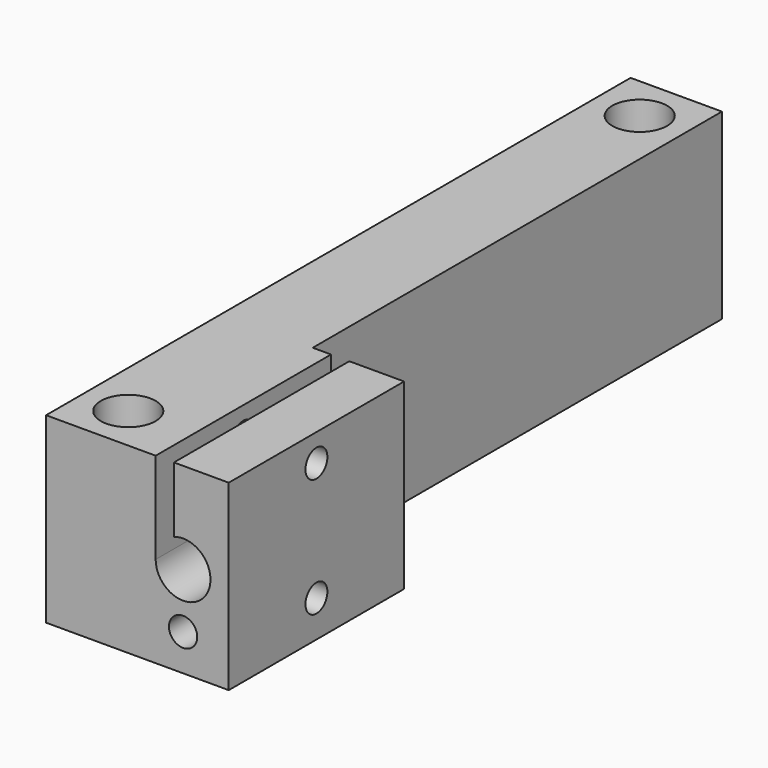
from build123d import *

# Parameters (mm, degrees)
SKETCH_W        = 20
SKETCH_H        = 20
PAD_DEPTH       = 80
SKETCH001_R     = 3
POCKET_DEPTH    = 20.001
SKETCH002_W     = 10
SKETCH002_H     = 56
POCKET001_DEPTH = 20.001
SKETCH003_R     = 3
SKETCH003_R_2   = 1.55
POCKET002_DEPTH = 80.001
SKETCH004_W     = 2
SKETCH004_H     = 24
POCKET003_DEPTH = 10
SKETCH005_R     = 1.5
POCKET004_DEPTH = 5
SKETCH006_R     = 1.5
POCKET005_DEPTH = 20.001


with BuildPart() as part:
    # Sketch → Pad (new body)
    with BuildSketch(Plane.XZ):
        with Locations((10, 10)):
            Rectangle(SKETCH_W, SKETCH_H)
    extrude(amount=PAD_DEPTH)

    # Sketch001 (on Face3 of Pad) → Pocket (cut, through all)
    with BuildSketch(Plane(origin=(0, 0, 20), x_dir=(-1, 0, 0), z_dir=(0, 0, 1))):
        with Locations((-5, 5)):
            Circle(SKETCH001_R)
        with Locations((-5, 75)):
            Circle(SKETCH001_R)
    extrude(amount=-POCKET_DEPTH, mode=Mode.SUBTRACT)

    # Sketch002 (on Face8 of Pocket) → Pocket001 (cut, through all)
    with BuildSketch(Plane(origin=(0, 0, 20), x_dir=(-1, 0, 0), z_dir=(0, 0, 1))):
        with Locations((-15, 28)):
            Rectangle(SKETCH002_W, SKETCH002_H)
    extrude(amount=-POCKET001_DEPTH, mode=Mode.SUBTRACT)

    # Sketch003 (on Face6 of Pocket001) → Pocket002 (cut, through all)
    with BuildSketch(Plane.XZ.offset(80)):
        with Locations((15, 10)):
            Circle(SKETCH003_R)
        with Locations((15, 4)):
            Circle(SKETCH003_R_2)
    extrude(amount=-POCKET002_DEPTH, mode=Mode.SUBTRACT)

    # Sketch004 (on Face10 of Pocket002) → Pocket003 (cut)
    with BuildSketch(Plane(origin=(0, 0, 20), x_dir=(-1, 0, 0), z_dir=(0, 0, 1))):
        with Locations((-13, 68)):
            Rectangle(SKETCH004_W, SKETCH004_H)
    extrude(amount=-POCKET003_DEPTH, mode=Mode.SUBTRACT)

    # Sketch005 (on Face5 of Pocket003) → Pocket004 (cut)
    with BuildSketch(Plane(origin=(20, 0, 0), x_dir=(0, 0, 1), z_dir=(1, 0, 0))):
        with Locations((4, 68)):
            Circle(SKETCH005_R)
    extrude(amount=-POCKET004_DEPTH, mode=Mode.SUBTRACT)

    # Sketch006 (on Face5 of Pocket004) → Pocket005 (cut, through all)
    with BuildSketch(Plane(origin=(20, 0, 0), x_dir=(0, 0, 1), z_dir=(1, 0, 0))):
        with Locations((17, 68)):
            Circle(SKETCH006_R)
    extrude(amount=-POCKET005_DEPTH, mode=Mode.SUBTRACT)


solid = part.part
